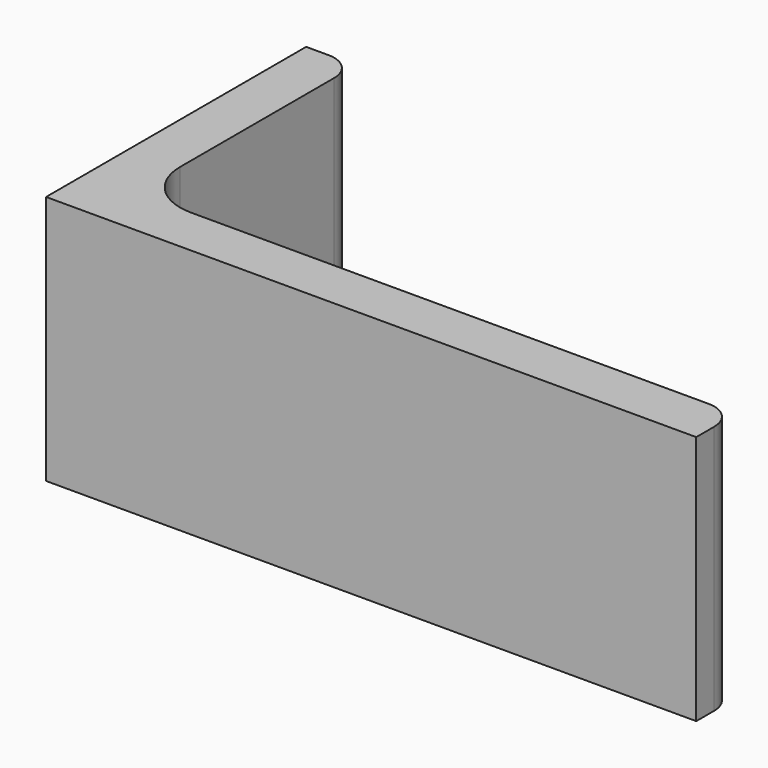
from build123d import *

# Parameters (mm, degrees)
EXTRUDE_DEPTH = 50


with BuildPart() as part:
    # Sketch → Extrude (new body)
    with BuildSketch(Plane.XY):
        with BuildLine():
            Line((0, 0), (130, 0))
            Line((130, 0), (130, 4.5))
            ThreePointArc((130, 4.5), (128.389087, 8.389087), (124.5, 10))
            Line((124.5, 10), (21, 10))
            ThreePointArc((10, 21), (13.221825, 13.221825), (21, 10))
            Line((10, 59.5), (10, 21))
            ThreePointArc((10, 59.5), (8.389087, 63.389087), (4.5, 65))
            Line((0, 65), (4.5, 65))
            Line((0, 0), (0, 65))
        make_face()
    extrude(amount=EXTRUDE_DEPTH)


solid = part.part
